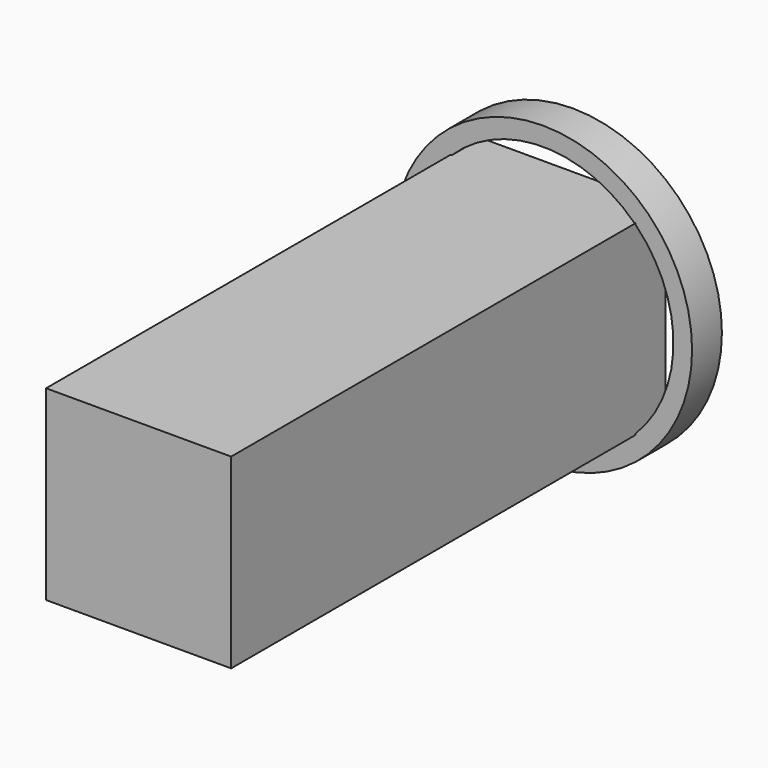
from build123d import *

# Parameters (mm, degrees)
F0_R     = 152.4
F0_R_2   = 133.35
F1_DEPTH = 38.1
F2_W     = 189.069616
F2_H     = 190.5
F3_DEPTH = 554.482


with BuildPart() as f1:
    # F0 (on Front) → F1 (new body)
    with BuildSketch(Plane.XZ):
        Circle(F0_R)
        Circle(F0_R_2, mode=Mode.SUBTRACT)
    extrude(amount=F1_DEPTH)

    # F2 (on Front) → F3 (join)
    with BuildSketch(Plane.XZ):
        Rectangle(F2_W, F2_H)
    extrude(amount=F3_DEPTH)


solid = f1.part
